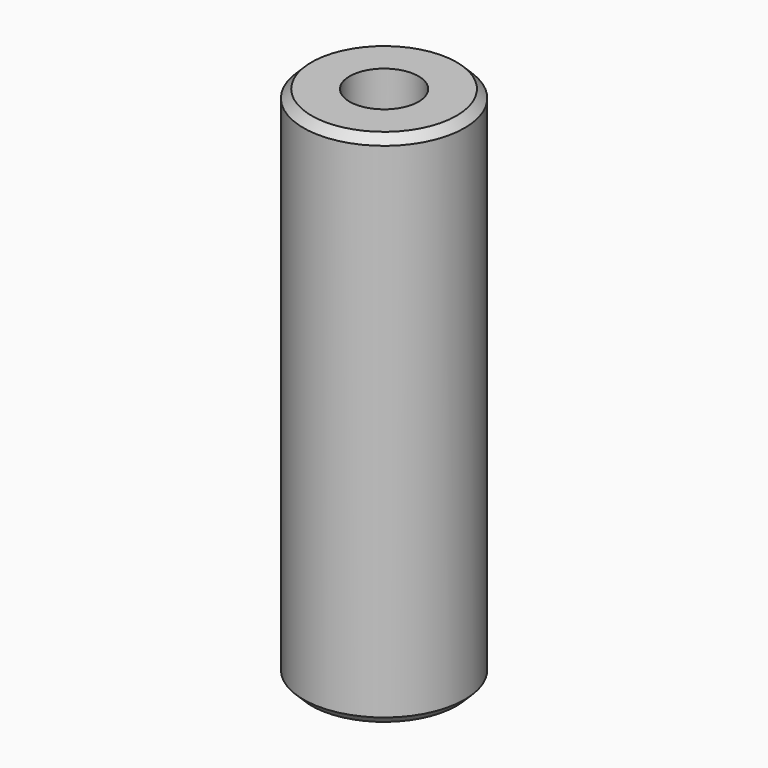
from build123d import *

# Parameters (mm, degrees)
F0_R     = 15.7734
F1_DEPTH = 101.6
F3_D     = 13.49248
F3_DEPTH = 32.3272658
F3_TIP   = 4.0535499425
F4_SIZE  = 1.5875


with BuildPart() as f1:
    # F0 (on Top) → F1 (new body)
    with BuildSketch(Plane.XY):
        with Locations((-36.8766486645, 14.1249885783)):
            Circle(F0_R)
    extrude(amount=F1_DEPTH)

    # F3
    with Locations(Plane.XY.offset(101.6)):
        with Locations((-36.8766486645, 14.1249885783)):
            Hole(F3_D / 2, depth=F3_DEPTH)
            with Locations((0, 0, -(F3_DEPTH + F3_TIP / 2))):  # 118° drill point
                Cone(0, F3_D / 2, F3_TIP, mode=Mode.SUBTRACT)

    # F4
    f4_edges = [f1.edges().sort_by_distance(p)[0] for p in [
        (-52.650049, 14.124989, 0),
        (-52.650049, 14.124989, 101.6),
    ]]
    chamfer(f4_edges, length=F4_SIZE)


solid = f1.part
